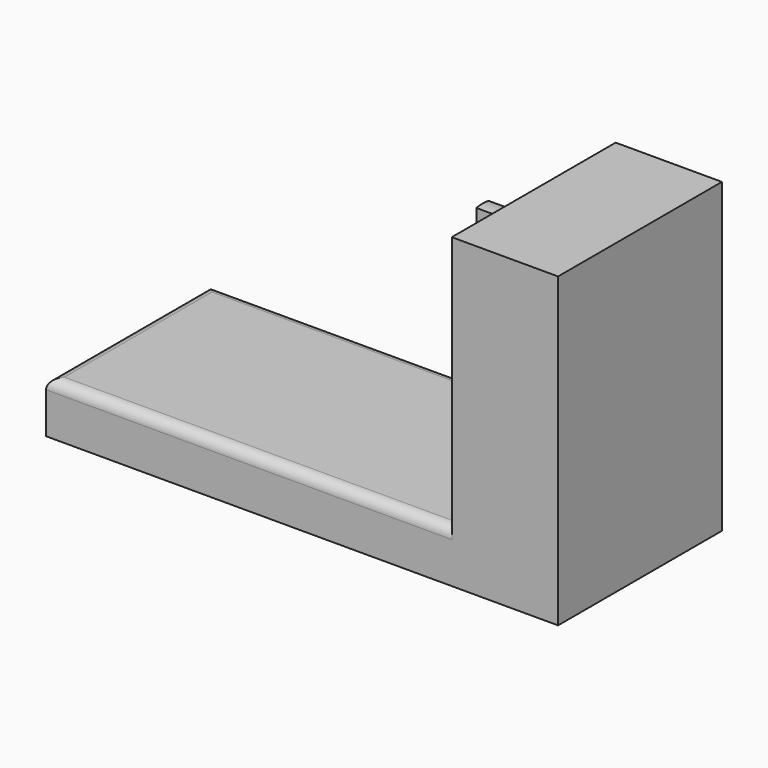
from build123d import *

# Parameters (mm, degrees)
F0_W     = 254
F0_H     = 101.6
F1_DEPTH = 25.4
F2_W     = 52.7394
F2_H     = 101.6
F3_DEPTH = 127
F5_DEPTH = 25.4
F6_R     = 5.08


with BuildPart() as f1:
    # F0 (on Top) → F1 (new body)
    with BuildSketch(Plane.XY):
        with Locations((5.498968, -27.346462)):
            Rectangle(F0_W, F0_H)
    extrude(amount=F1_DEPTH)

    # F2 (on face) → F3 (join)
    with BuildSketch(Plane.XY.offset(25.4)):
        with Locations((106.129268, -27.346462)):
            Rectangle(F2_W, F2_H)
    extrude(amount=F3_DEPTH)

    # F4 (on face) → F5 (join)
    with BuildSketch(Plane(origin=(79.759568, 0, 0), x_dir=(0, -1, 0), z_dir=(-1, 0, 0))):
        with BuildLine():
            ThreePointArc((31.156462, 137.818299), (27.346462, 138.203187), (23.536462, 137.818299))
            Line((23.536462, 137.818299), (23.536462, 130.198299))
            Line((23.536462, 130.198299), (31.156462, 130.198299))
            Line((31.156462, 130.198299), (31.156462, 137.818299))
        make_face()
        with BuildLine():
            Line((23.642148, 108.086814), (23.642148, 100.466814))
            ThreePointArc((23.642148, 100.466814), (27.346462, 100.103187), (31.050777, 100.466814))
            Line((31.050777, 100.466814), (31.050777, 108.086814))
            Line((31.050777, 108.086814), (23.642148, 108.086814))
        make_face()
    extrude(amount=F5_DEPTH)

    # F6
    f6_edges = [f1.edges().sort_by_distance(p)[0] for p in [
        (-20.870732, -78.146462, 25.4),
        (-121.501032, -27.346462, 25.4),
        (-20.870732, 23.453538, 25.4),
    ]]
    fillet(f6_edges, radius=F6_R)


solid = f1.part
